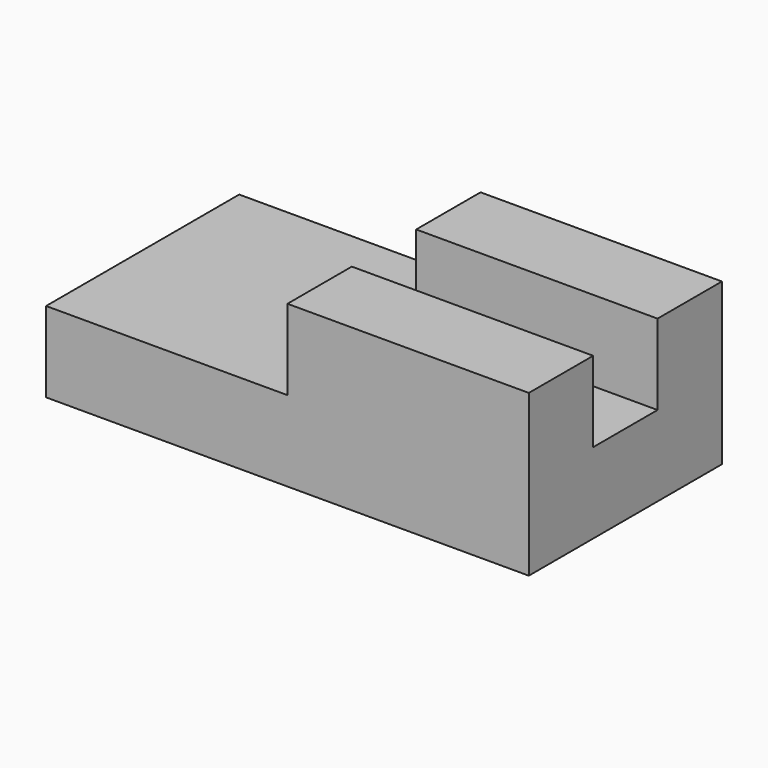
from build123d import *

# Parameters (mm, degrees)
F0_W     = 152.4
F0_H     = 50.8
F1_DEPTH = 76.2
F2_W     = 76.2
F2_H     = 25.4
F3_DEPTH = 25.4


with BuildPart() as f1:
    # F0 (on Front) → F1 (new body)
    with BuildSketch(Plane.XZ):
        with Locations((76.2, 25.4)):
            Rectangle(F0_W, F0_H)
    extrude(amount=-F1_DEPTH)

    # F2 (on face) → F3 (cut)
    with BuildSketch(Plane.XY.offset(50.8)):
        Polygon((0, 76.2), (0, 0), (76.2, 0), (76.2, 25.4), (76.2, 50.8), (76.2, 76.2), align=None)
        with Locations((114.3, 38.1)):
            Rectangle(F2_W, F2_H)
    extrude(amount=-F3_DEPTH, mode=Mode.SUBTRACT)


solid = f1.part
